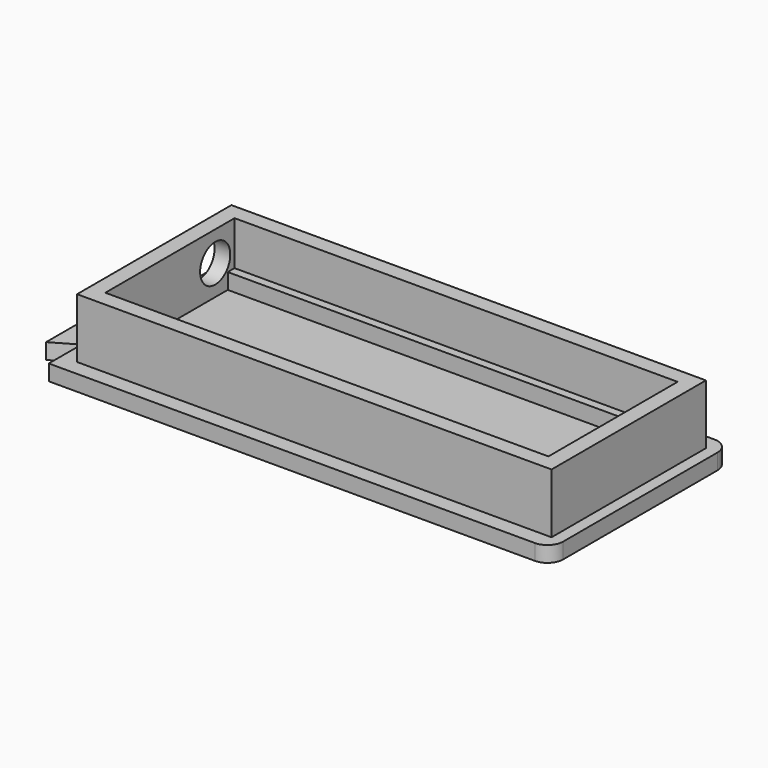
from build123d import *

# Parameters (mm, degrees)
SKETCH048_W     = 70.5
SKETCH048_H     = 25.7
PAD041_DEPTH    = 9.5
THICKNESS005_T  = 2.5
SKETCH049_R     = 3
POCKET011_DEPTH = 2.5
SKETCH050_W     = 70.5
SKETCH050_H     = 1.5
PAD042_DEPTH    = 2.5
PAD040_DEPTH    = 2.5


with BuildPart() as body014:
    # Sketch048 → Pad041 (new body)
    with BuildSketch(Plane.XY):
        with Locations((0, -48)):
            Rectangle(SKETCH048_W, SKETCH048_H)
    extrude(amount=PAD041_DEPTH)

    # Thickness005
    thickness005_openings = [body014.faces().sort_by_distance(p)[0] for p in [
        (0, -48, 9.5),
        (0, -48, 0),
    ]]
    offset(amount=THICKNESS005_T, openings=thickness005_openings, kind=Kind.INTERSECTION)

    # Sketch049 (on Face6 of Thickness005) → Pocket011 (cut)
    with BuildSketch(Plane(origin=(-37.75, 0, 0), x_dir=(0, -1, 0), z_dir=(-1, 0, 0))):
        with Locations((39, 4.75)):
            Circle(SKETCH049_R)
    extrude(amount=-POCKET011_DEPTH, mode=Mode.SUBTRACT)

    # Sketch050 → Pad042 (join)
    with BuildSketch(Plane.XY):
        with Locations((0, -35.75)):
            Rectangle(SKETCH050_W, SKETCH050_H)
    extrude(amount=PAD042_DEPTH)


with BuildPart() as body014_1:
    # Body014 placement: moved
    add(body014.part.moved(Location((84.5, 36.85, 0))))


with BuildPart() as tail:
    # Sketch047 → Pad040 (new body)
    with BuildSketch(Plane(origin=(0, 0, 0), x_dir=(1, 0, 0), z_dir=(0, 0, -1))):
        with BuildLine():
            Line((-40.250166, 30.15), (37.1, 30.15))
            ThreePointArc((37.1, 30.15), (38.867767, 30.882233), (39.6, 32.65))
            Line((39.6, 63.35), (39.6, 32.65))
            ThreePointArc((39.6, 63.35), (38.867767, 65.117767), (37.1, 65.85))
            Line((37.1, 65.85), (-40.25, 65.85))
            Line((-40.25, 65.85), (-40.25, 59.35))
            Line((-40.25, 59.35), (-44.1, 61.572799))
            Line((-44.1, 61.572799), (-44.1, 51.292346))
            Line((-44.1, 51.292346), (-40.25, 53.515144))
            Line((-40.25, 53.515144), (-40.25, 42.485144))
            Line((-40.25, 42.485144), (-44.100166, 44.707654))
            Line((-44.100166, 44.707654), (-44.100166, 34.427201))
            Line((-44.100166, 34.427201), (-40.250166, 36.65))
            Line((-40.250166, 36.65), (-40.250166, 30.15))
        make_face()
    extrude(amount=PAD040_DEPTH)


with BuildPart() as tail_1:
    # Body013 placement: moved
    add(tail.part.moved(Location((84.5, 36.85, 0))))

    # Fusion004: union Body014
    add(body014_1.part)


with BuildPart() as tail_2:
    # Fusion004 placement: moved
    add(tail_1.part.moved(Location((6.5, 0, 0))))


solid = tail_2.part
